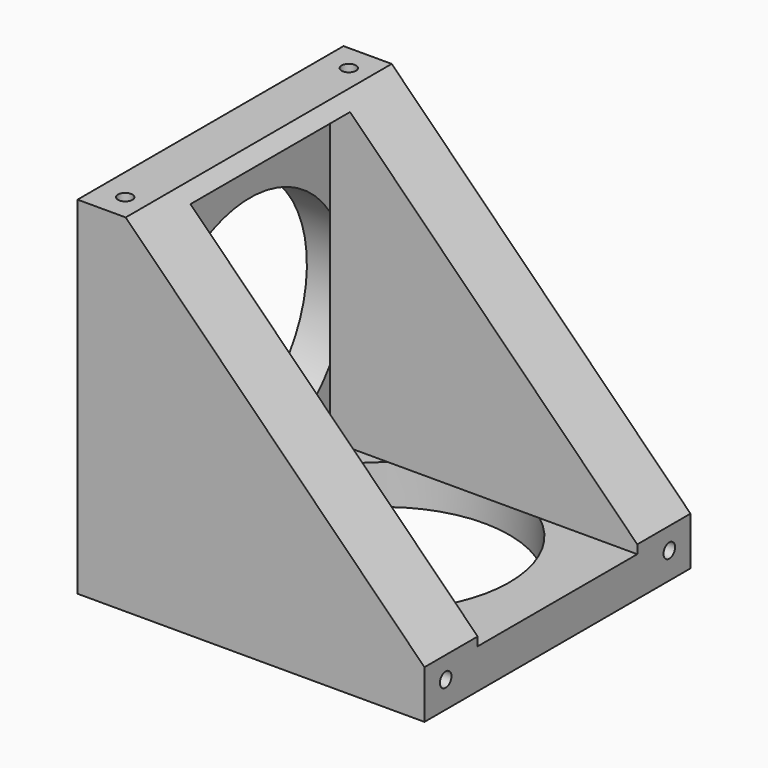
from build123d import *

# Parameters (mm, degrees)
F1_DEPTH        = 34.5
F2_R            = 12.5
F3_DEPTH        = 4.1
F4_R            = 13
F5_DEPTH        = 4.1
F6_W            = 20.7
F6_H            = 29.8
F6_H_2          = 0.9
F7_DEPTH        = 31.9
F10_D           = 1.5
F10_DEPTH       = 5
F10_TIP         = 0.4506454643
F10_ON_F9_D     = 1.5
F10_ON_F9_DEPTH = 5
F10_ON_F9_TIP   = 0.4506454643
F12_DEPTH       = 25


with BuildPart() as f1:
    # F0 (on Front) → F1 (new body)
    with BuildSketch(Plane.XZ):
        Polygon((0, 36), (0, 0), (36, 0), (36, 5), (5, 36), align=None)
    extrude(amount=F1_DEPTH)

    # F2 (on face) → F3 (cut)
    with BuildSketch(Plane(origin=(0, 0, 0), x_dir=(0, -1, 0), z_dir=(-1, 0, 0))):
        with Locations((17.25, 18)):
            Circle(F2_R)
    extrude(amount=-F3_DEPTH, mode=Mode.SUBTRACT)

    # F4 (on face) → F5 (cut)
    with BuildSketch(Plane(origin=(0, 0, 0), x_dir=(1, 0, 0), z_dir=(0, 0, -1))):
        with Locations((18, 17.25)):
            Circle(F4_R)
    extrude(amount=-F5_DEPTH, mode=Mode.SUBTRACT)

    # F6 (on face) → F7 (cut)
    with BuildSketch(Plane.YZ.offset(36)):
        with Locations((-17.25, 19.9)):
            Rectangle(F6_W, F6_H)
        with Locations((-17.25, 4.55)):
            Rectangle(F6_W, F6_H_2)
    extrude(amount=-F7_DEPTH, mode=Mode.SUBTRACT)

    # F10
    with Locations(Plane.XY.offset(36)):
        with Locations((2.75, -31.75), (2.75, -2.75)):
            Hole(F10_D / 2, depth=F10_DEPTH)
            with Locations((0, 0, -(F10_DEPTH + F10_TIP / 2))):  # 118° drill point
                Cone(0, F10_D / 2, F10_TIP, mode=Mode.SUBTRACT)

    # F10 on F9
    with Locations(Plane.YZ.offset(36)):
        with Locations((-31.75, 2.75), (-2.75, 2.75)):
            Hole(F10_ON_F9_D / 2, depth=F10_ON_F9_DEPTH)
            with Locations((0, 0, -(F10_ON_F9_DEPTH + F10_ON_F9_TIP / 2))):  # 118° drill point
                Cone(0, F10_ON_F9_D / 2, F10_ON_F9_TIP, mode=Mode.SUBTRACT)

    # F11 (on face) → F12 (cut)
    with BuildSketch(Plane(origin=(0, 0, 0), x_dir=(0, -1, 0), z_dir=(-1, 0, 0))):
        with BuildLine():
            ThreePointArc((18, 5.5225202865), (17.5002003207, 5.5025042589), (17, 5.5025002501))
            Line((17, 5.5025002501), (17, 0))
            Line((17, 0), (18, 0))
            Line((18, 0), (18, 5.5225202865))
        make_face()
    extrude(amount=-F12_DEPTH, mode=Mode.SUBTRACT)


solid = f1.part
